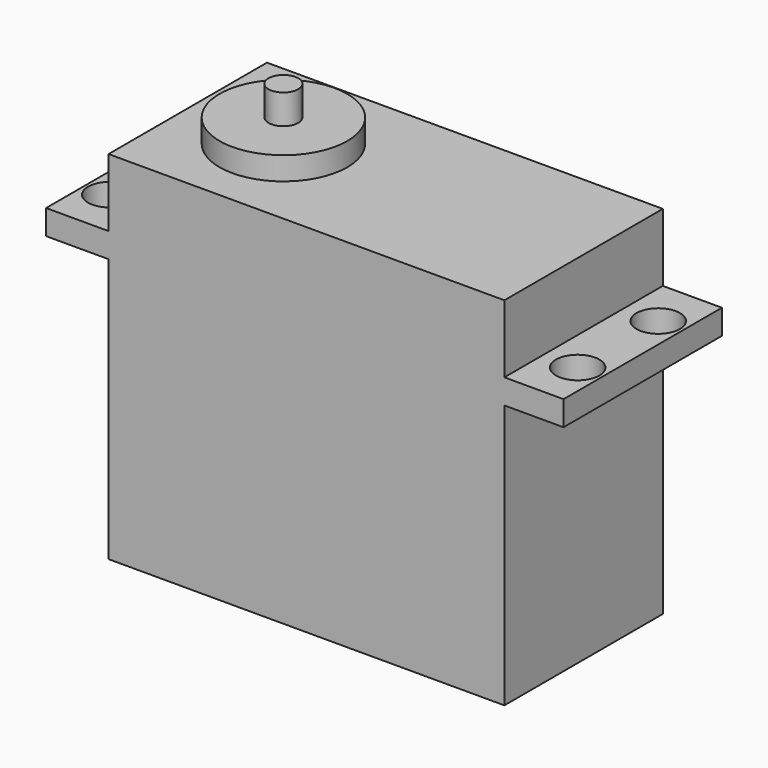
from build123d import *

# Parameters (mm, degrees)
F0_W     = 5.97
F0_H     = 2.5
F0_W_2   = 6.31
F1_DEPTH = 10
F0_W_3   = 6.45
F0_H_2   = 2.33
F3_R     = 2.19
F3_R_2   = 2.195
F4_DEPTH = 2.5
F5_R     = 2.19
F6_DEPTH = 2.5
F7_R     = 1.5
F8_DEPTH = 3


with BuildPart() as f1:
    # F0 (on Front) → F1 (new body, symmetric)
    with BuildSketch(Plane.XZ):
        Polygon((-6.45, 9.35), (-9.66, 9.35), (-9.66, 2.5), (-9.66, 0), (-9.66, -26.67), (30.32, -26.67), (30.32, 0), (30.32, 2.5), (30.32, 9.35), (6.45, 9.35), (0, 9.35), align=None)
        with Locations((33.305, 1.25)):
            Rectangle(F0_W, F0_H)
        with Locations((-12.815, 1.25)):
            Rectangle(F0_W_2, F0_H)
    extrude(amount=F1_DEPTH, both=True)

    # F0 (on Front) → F2 (revolve)
    with BuildSketch(Plane.XZ):
        with Locations((3.225, 10.515)):
            Rectangle(F0_W_3, F0_H_2)
    revolve(axis=Axis((0, 0, -16.804387), (0, 0, -1)))

    # F3 (on face) → F4 (cut, through all)
    with BuildSketch(Plane(origin=(0, 0, 0), x_dir=(1, 0, 0), z_dir=(0, 0, -1))):
        with Locations((-13.47, 5.085)):
            Circle(F3_R)
        with Locations((-13.47, -5.085)):
            Circle(F3_R_2)
    extrude(amount=-F4_DEPTH, mode=Mode.SUBTRACT)

    # F5 (on face) → F6 (cut, through all)
    with BuildSketch(Plane(origin=(0, 0, 0), x_dir=(1, 0, 0), z_dir=(0, 0, -1))):
        with Locations((33.79, 5.085)):
            Circle(F5_R)
        with Locations((33.79, -5.085)):
            Circle(F5_R)
    extrude(amount=-F6_DEPTH, mode=Mode.SUBTRACT)

    # F7 (on face) → F8 (join)
    with BuildSketch(Plane.XY.offset(11.68)):
        Circle(F7_R)
    extrude(amount=F8_DEPTH)


solid = f1.part
